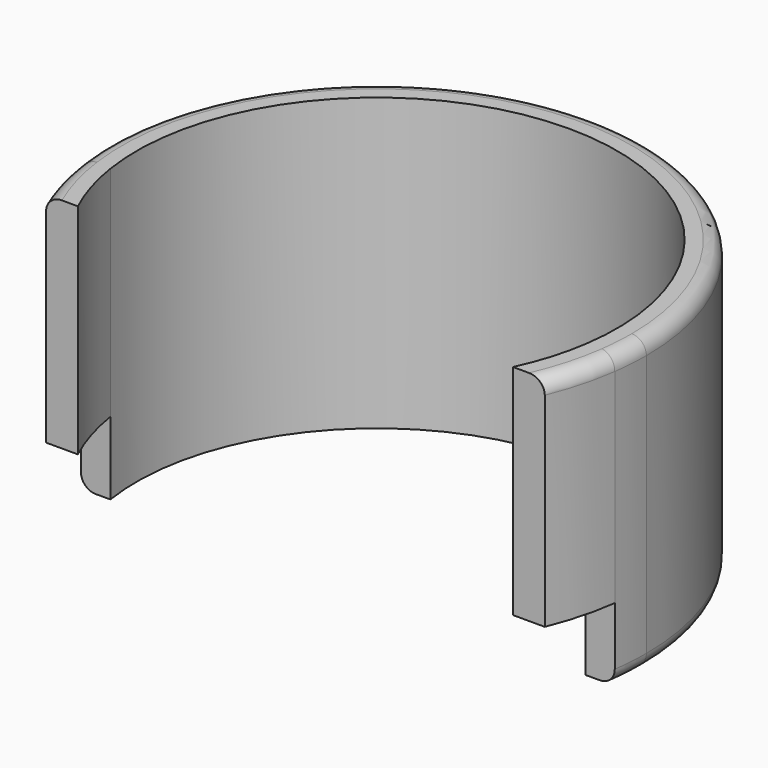
from build123d import *

# Parameters (mm, degrees)
F1_DEPTH = 20
F2_DEPTH = 5
F3_R     = 1


with BuildPart() as f1:
    # F0 (on Top) → F1 (new body)
    with BuildSketch(Plane.XY):
        with BuildLine():
            ThreePointArc((-16.3095064303, -2.5), (-1.253623528, 16.4523076816), (16.5, 0))
            ThreePointArc((16.5, 0), (16.4523076816, -1.253623528), (16.3095064303, -2.5))
            Line((16.3095064303, -2.5), (18.3303027798, -2.5))
            ThreePointArc((18.3303027798, -2.5), (18.4575269393, -1.2528764052), (18.5, 0))
            ThreePointArc((18.5, 0), (-1.2528764052, 18.4575269393), (-18.3303027798, -2.5))
            Line((-18.3303027798, -2.5), (-16.3095064303, -2.5))
        make_face()
        with BuildLine():
            Line((18.3303027798, -2.5), (16.3095064303, -2.5))
            ThreePointArc((16.3095064303, -2.5), (15.7866929949, -4.7989920072), (14.9415527975, -7))
            Line((14.9415527975, -7), (17.1245437895, -7))
            ThreePointArc((17.1245437895, -7), (17.8696400723, -4.7881064823), (18.3303027798, -2.5))
        make_face()
        with BuildLine():
            ThreePointArc((-14.9415527975, -7), (-15.7866929949, -4.7989920072), (-16.3095064303, -2.5))
            Line((-16.3095064303, -2.5), (-18.3303027798, -2.5))
            ThreePointArc((-18.3303027798, -2.5), (-17.8696400723, -4.7881064823), (-17.1245437895, -7))
            Line((-17.1245437895, -7), (-14.9415527975, -7))
        make_face()
    extrude(amount=F1_DEPTH)

    # F0 (on Top) → F2 (cut)
    with BuildSketch(Plane.XY):
        with BuildLine():
            ThreePointArc((-14.9415527975, -7), (-15.7866929949, -4.7989920072), (-16.3095064303, -2.5))
            Line((-16.3095064303, -2.5), (-18.3303027798, -2.5))
            ThreePointArc((-18.3303027798, -2.5), (-17.8696400723, -4.7881064823), (-17.1245437895, -7))
            Line((-17.1245437895, -7), (-14.9415527975, -7))
        make_face()
        with BuildLine():
            Line((18.3303027798, -2.5), (16.3095064303, -2.5))
            ThreePointArc((16.3095064303, -2.5), (15.7866929949, -4.7989920072), (14.9415527975, -7))
            Line((14.9415527975, -7), (17.1245437895, -7))
            ThreePointArc((17.1245437895, -7), (17.8696400723, -4.7881064823), (18.3303027798, -2.5))
        make_face()
    extrude(amount=F2_DEPTH, mode=Mode.SUBTRACT)

    # F3
    f3_edges = [f1.edges().sort_by_distance(p)[0] for p in [
        (0, 18.5, 20),
        (0, 18.5, 0),
    ]]
    fillet(f3_edges, radius=F3_R)


solid = f1.part
